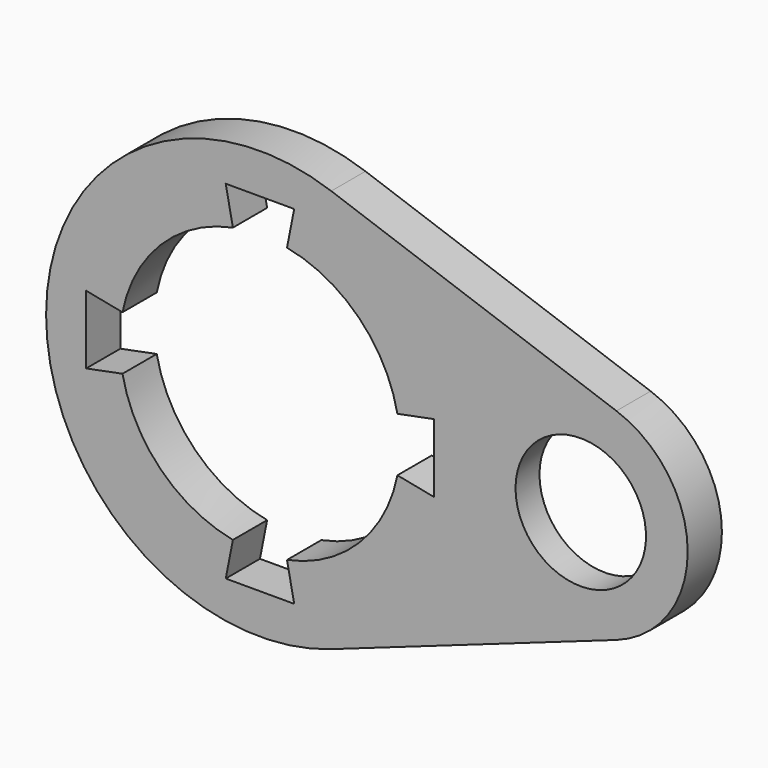
from build123d import *

# Parameters (mm, degrees)
F1_DEPTH       = 2
F2_D           = 6.1
F2_CBORE_D     = 7.4
F2_CBORE_DEPTH = 0.6


with BuildPart() as f1:
    # F0 (on Front) → F1 (new body)
    with BuildSketch(Plane.XZ):
        with BuildLine():
            Line((16.666667, 4.714045), (3.333333, 9.42809))
            ThreePointArc((3.333333, 9.42809), (-10, 0), (3.333333, -9.42809))
            Line((3.333333, -9.42809), (16.666667, -4.714045))
            ThreePointArc((16.666667, -4.714045), (20, 0), (16.666667, 4.714045))
        make_face()
        with BuildLine():
            ThreePointArc((1.265298, 6.426626), (4.631549, 4.631549), (6.426626, 1.265298))
            Line((6.426626, 1.265298), (8.126626, 1.6))
            Line((8.126626, 1.6), (8.126626, -1.6))
            Line((8.126626, -1.6), (6.426626, -1.265298))
            ThreePointArc((6.426626, -1.265298), (4.631549, -4.631549), (1.265298, -6.426626))
            Line((1.265298, -6.426626), (1.6, -8.126626))
            Line((1.6, -8.126626), (-1.6, -8.126626))
            Line((-1.6, -8.126626), (-1.265298, -6.426626))
            ThreePointArc((-1.265298, -6.426626), (-4.631549, -4.631549), (-6.426626, -1.265298))
            Line((-6.426626, -1.265298), (-8.126626, -1.6))
            Line((-8.126626, -1.6), (-8.126626, 1.6))
            Line((-8.126626, 1.6), (-6.426626, 1.265298))
            ThreePointArc((-6.426626, 1.265298), (-4.631549, 4.631549), (-1.265298, 6.426626))
            Line((-1.265298, 6.426626), (-1.6, 8.126626))
            Line((-1.6, 8.126626), (1.6, 8.126626))
            Line((1.6, 8.126626), (1.265298, 6.426626))
        make_face(mode=Mode.SUBTRACT)
    extrude(amount=F1_DEPTH)

    # F2 (through all)
    with Locations(Plane(origin=(0, 0, 0), x_dir=(1, 0, 0), z_dir=(0, 1, 0))):
        with Locations((15, 0)):
            CounterBoreHole(F2_D / 2, F2_CBORE_D / 2, F2_CBORE_DEPTH)


solid = f1.part
